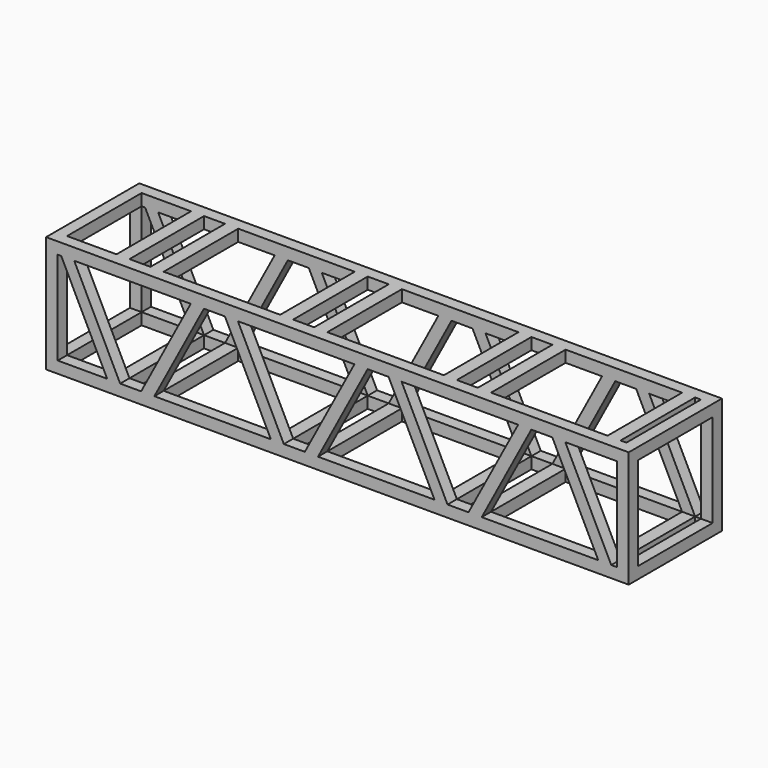
from build123d import *

# Parameters (mm, degrees)
F1_DEPTH = 50
F2_W     = 2.5
F2_H     = 40
F2_W_2   = 50
F2_W_3   = 9
F2_W_4   = 21.211368
F3_DEPTH = 5
F4_W     = 40
F4_H     = 40
F5_DEPTH = 350
F6_W     = 9
F6_H     = 40
F6_W_2   = 2.5
F7_DEPTH = 25


with BuildPart() as f1:
    # F0 (on Front) → F1 (new body)
    with BuildSketch(Plane.XZ):
        Polygon((97.859602, 45), (-152.140398, 45), (-152.140398, -5), (97.859602, -5), (97.859602, 0), align=None)
        Polygon((-147.140398, 40), (-145.640398, 40), (-125.92903, 0), (-147.140398, 0), align=None, mode=Mode.SUBTRACT)
        Polygon((-90.06627, 40), (-111.354901, 0), (-120.354901, 0), (-140.06627, 40), align=None, mode=Mode.SUBTRACT)
        Polygon((-55.690862, 0), (-105.690862, 0), (-84.402231, 40), (-75.402231, 40), align=None, mode=Mode.SUBTRACT)
        Polygon((-50.116734, 0), (-69.828102, 40), (-19.828102, 40), (-41.116734, 0), align=None, mode=Mode.SUBTRACT)
        Polygon((-14.164063, 40), (-5.164063, 40), (14.547306, 0), (-35.452694, 0), align=None, mode=Mode.SUBTRACT)
        Polygon((20.121434, 0), (0.410065, 40), (50.410065, 40), (29.121434, 0), align=None, mode=Mode.SUBTRACT)
        Polygon((65.074105, 40), (84.785473, 0), (34.785473, 0), (56.074105, 40), align=None, mode=Mode.SUBTRACT)
        Polygon((92.859602, 40), (92.859602, 0), (90.359602, 0), (70.648233, 40), align=None, mode=Mode.SUBTRACT)
    extrude(amount=F1_DEPTH)

    # F2 (on face) → F3 (cut)
    with BuildSketch(Plane(origin=(0, 0, -5), x_dir=(1, 0, 0), z_dir=(0, 0, -1))):
        with Locations((91.609602, 25)):
            Rectangle(F2_W, F2_H)
        with Locations((59.785473, 25)):
            Rectangle(F2_W_2, F2_H)
        with Locations((-10.452694, 25)):
            Rectangle(F2_W_2, F2_H)
        with Locations((24.621434, 25)):
            Rectangle(F2_W_3, F2_H)
        with Locations((-80.690862, 25)):
            Rectangle(F2_W_2, F2_H)
        with Locations((-45.616734, 25)):
            Rectangle(F2_W_3, F2_H)
        with Locations((-136.534714, 25)):
            Rectangle(F2_W_4, F2_H)
        with Locations((-115.854901, 25)):
            Rectangle(F2_W_3, F2_H)
    extrude(amount=-F3_DEPTH, mode=Mode.SUBTRACT)

    # F4 (on face) → F5 (cut)
    with BuildSketch(Plane.YZ.offset(97.859602)):
        with Locations((-25, 20)):
            Rectangle(F4_W, F4_H)
    extrude(amount=-F5_DEPTH, mode=Mode.SUBTRACT)

    # F6 (on face) → F7 (cut)
    with BuildSketch(Plane(origin=(0, 0, 40), x_dir=(1, 0, 0), z_dir=(0, 0, -1))):
        Polygon((-145.640398, 5), (-140.06627, 5), (-125.92903, 5), (-125.92903, 45), (-140.06627, 45), (-145.640398, 45), (-147.140398, 45), (-147.140398, 5), align=None)
        with Locations((-115.854901, 25)):
            Rectangle(F6_W, F6_H)
        Polygon((-5.164063, 5), (0.410065, 5), (14.547306, 5), (14.547306, 45), (0.410065, 45), (-5.164063, 45), (-14.164063, 45), (-19.828102, 45), (-35.452694, 45), (-35.452694, 5), (-19.828102, 5), (-14.164063, 5), align=None)
        Polygon((-75.402231, 5), (-69.828102, 5), (-55.690862, 5), (-55.690862, 45), (-69.828102, 45), (-75.402231, 45), (-84.402231, 45), (-90.06627, 45), (-105.690862, 45), (-105.690862, 5), (-90.06627, 5), (-84.402231, 5), align=None)
        with Locations((-45.616734, 25)):
            Rectangle(F6_W, F6_H)
        with Locations((24.621434, 25)):
            Rectangle(F6_W, F6_H)
        Polygon((65.074105, 5), (70.648233, 5), (84.785473, 5), (84.785473, 45), (70.648233, 45), (65.074105, 45), (56.074105, 45), (50.410065, 45), (34.785473, 45), (34.785473, 5), (50.410065, 5), (56.074105, 5), align=None)
        with Locations((91.609602, 25)):
            Rectangle(F6_W_2, F6_H)
    extrude(amount=-F7_DEPTH, mode=Mode.SUBTRACT)


solid = f1.part
